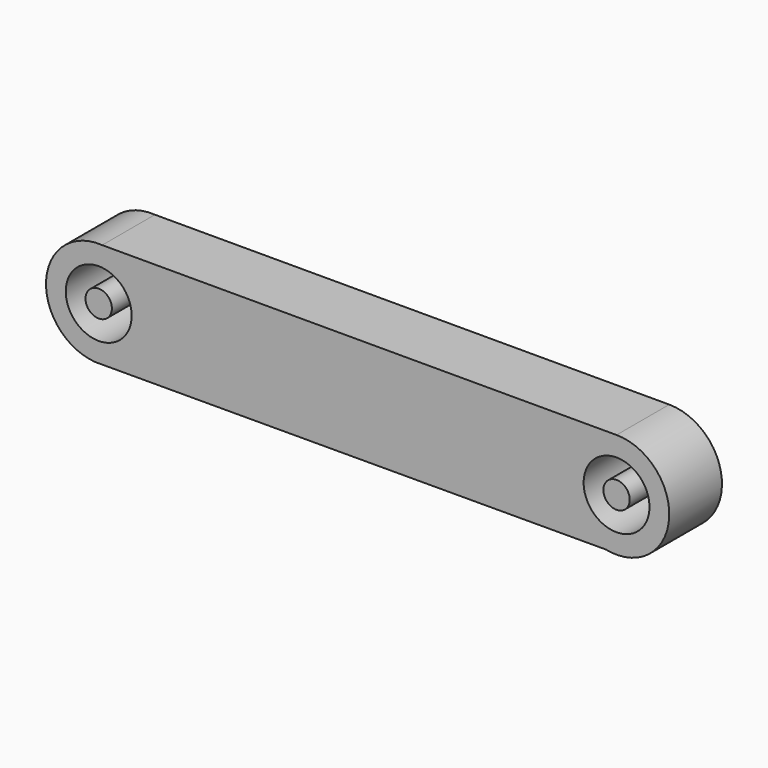
from build123d import *

# Parameters (mm, degrees)
F0_R     = 2.5
F1_DEPTH = 5
F0_R_2   = 1
F2_DEPTH = 5


with BuildPart() as f1:
    # F0 (on Front) → F1 (new body)
    with BuildSketch(Plane.XZ):
        with BuildLine():
            Line((19.933497, 26.088069), (-19.100958, 26.079305))
            ThreePointArc((-19.100958, 26.079305), (-23.357003, 22.35026), (-19.625339, 18.096511))
            Line((-19.625339, 18.096511), (-19.089927, 18.097581))
            Line((-19.089927, 18.097581), (19.110306, 18.17388))
            ThreePointArc((19.110306, 18.17388), (23.912931, 21.674244), (19.933497, 26.088069))
        make_face()
        with Locations((-19.365605, 22.088069)):
            Circle(F0_R, mode=Mode.SUBTRACT)
        with BuildLine():
            ThreePointArc((22.434395, 22.088069), (19.934395, 19.588069), (17.434395, 22.088069))
            ThreePointArc((17.434395, 22.088069), (19.934395, 24.588069), (22.434395, 22.088069))
        make_face(mode=Mode.SUBTRACT)
    extrude(amount=F1_DEPTH)


with BuildPart() as f2:
    # F0 (on Front) → F2 (new body)
    with BuildSketch(Plane.XZ):
        with Locations((-19.365605, 22.088069)):
            Circle(F0_R_2)
        with BuildLine():
            ThreePointArc((20.934395, 22.088069), (19.934395, 23.088069), (18.934395, 22.088069))
            ThreePointArc((18.934395, 22.088069), (19.934395, 21.088069), (20.934395, 22.088069))
        make_face()
    extrude(amount=F2_DEPTH)


solid = Compound([f1.part, f2.part])
